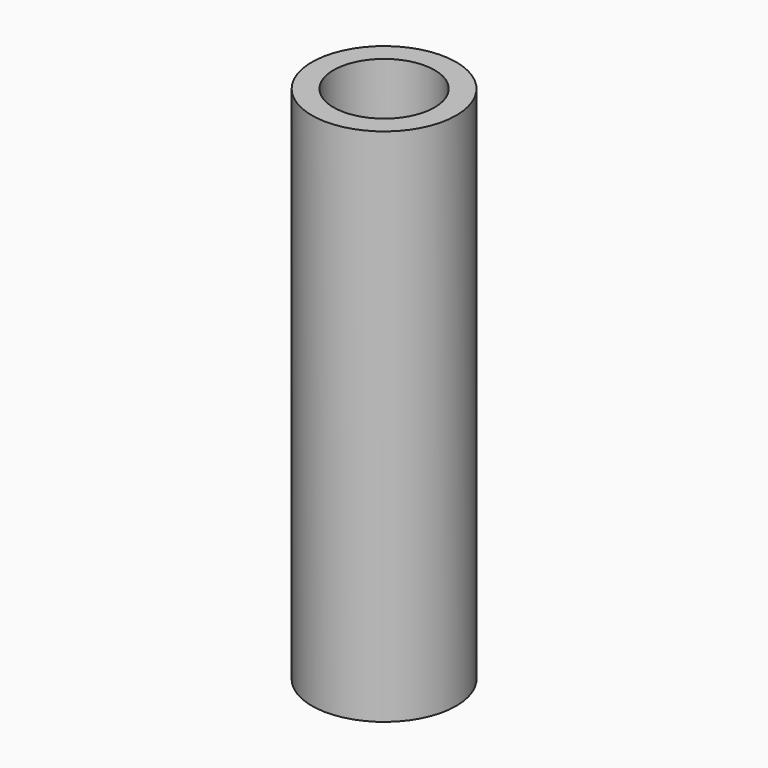
from build123d import *

# Parameters (mm, degrees)
SKETCH_R     = 2.5
PAD_DEPTH    = 18
SKETCH001_R  = 1.75
POCKET_DEPTH = 5


with BuildPart() as part:
    # Sketch → Pad (new body)
    with BuildSketch(Plane.XY):
        Circle(SKETCH_R)
    extrude(amount=PAD_DEPTH)

    # Sketch001 (on Face3 of Pad) → Pocket (cut)
    with BuildSketch(Plane.XY.offset(18)):
        Circle(SKETCH001_R)
    extrude(amount=-POCKET_DEPTH, mode=Mode.SUBTRACT)


solid = part.part
